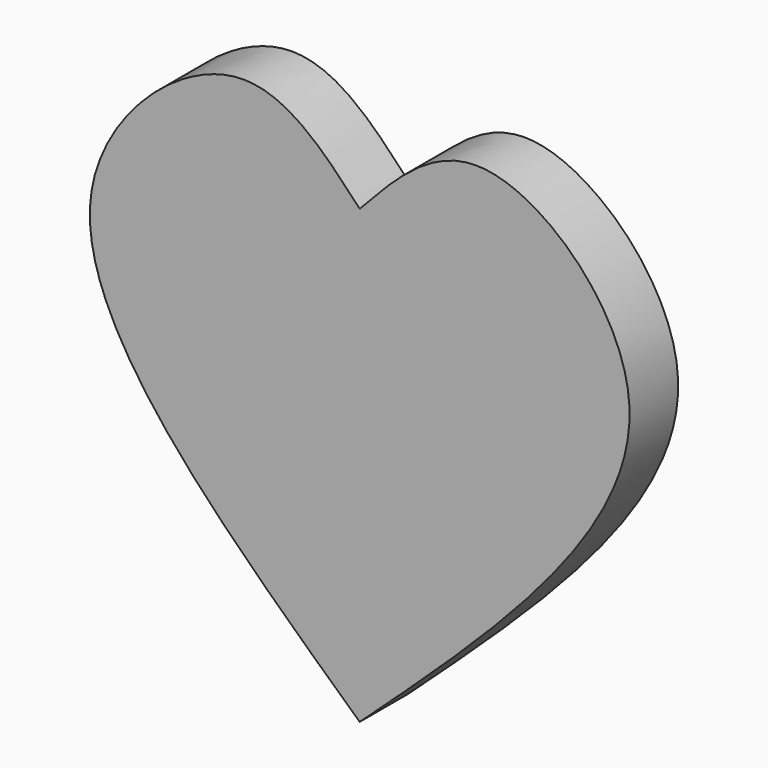
from build123d import *

# Parameters (mm, degrees)
F1_DEPTH = 6.35


with BuildPart() as f1:
    # F0 (on Front) → F1 (new body)
    with BuildSketch(Plane.XZ):
        with BuildLine():
            add(Edge.make_bspline(
                [(-4.5354501344, 17.4440406263), (-0.6128041929, 21.6536375326), (8.0465036616, 30.9463945385), (34.7137397861, 6.21298672), (10.1065567027, -16.3471869369), (-4.5354501344, -29.771162197)],
                knots=[0, 0, 0, 0, 0.251146301, 0.5544097452, 1, 1, 1, 1], degree=3))
            add(Edge.make_bspline(
                [(-4.5354501344, 17.4440406263), (-8.458096076, 21.6536375326), (-17.1174039304, 30.9463945385), (-43.7846400549, 6.21298672), (-19.1774569715, -16.3471869369), (-4.5354501344, -29.771162197)],
                knots=[0, 0, 0, 0, 0.251146301, 0.5544097452, 1, 1, 1, 1], degree=3))
        make_face()
    extrude(amount=F1_DEPTH)


solid = f1.part
